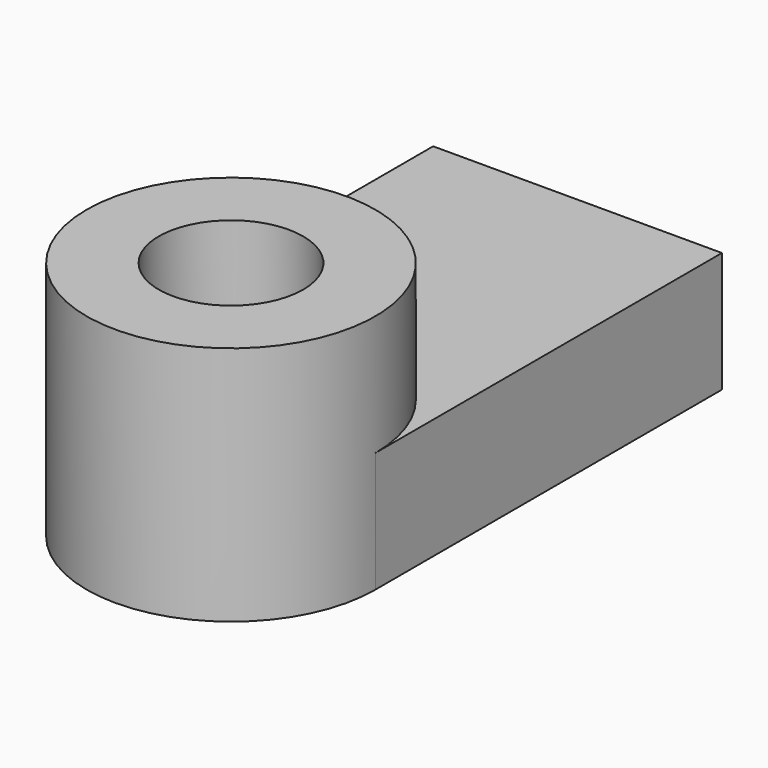
from build123d import *

# Parameters (mm, degrees)
F0_R     = 15
F1_DEPTH = 25
F2_R     = 15
F3_DEPTH = 50


with BuildPart() as f1:
    # F0 (on Top) → F1 (new body)
    with BuildSketch(Plane.XY):
        with BuildLine():
            Line((30, -45), (30, 45))
            Line((30, 45), (-30, 45))
            Line((-30, 45), (-30, -45))
            ThreePointArc((-30, -45), (0, -15), (30, -45))
        make_face()
        with BuildLine():
            ThreePointArc((-30, -45), (0, -75), (30, -45))
            ThreePointArc((30, -45), (0, -15), (-30, -45))
        make_face()
        with Locations((0, -45)):
            Circle(F0_R, mode=Mode.SUBTRACT)
    extrude(amount=F1_DEPTH)

    # F2 (on face) → F3 (join)
    with BuildSketch(Plane(origin=(0, 0, 0), x_dir=(1, 0, 0), z_dir=(0, 0, -1))):
        with BuildLine():
            ThreePointArc((30, 45), (0, 75), (-30, 45))
            ThreePointArc((-30, 45), (0, 15), (30, 45))
        make_face()
        with Locations((0, 45)):
            Circle(F2_R, mode=Mode.SUBTRACT)
    extrude(amount=-F3_DEPTH)


solid = f1.part
